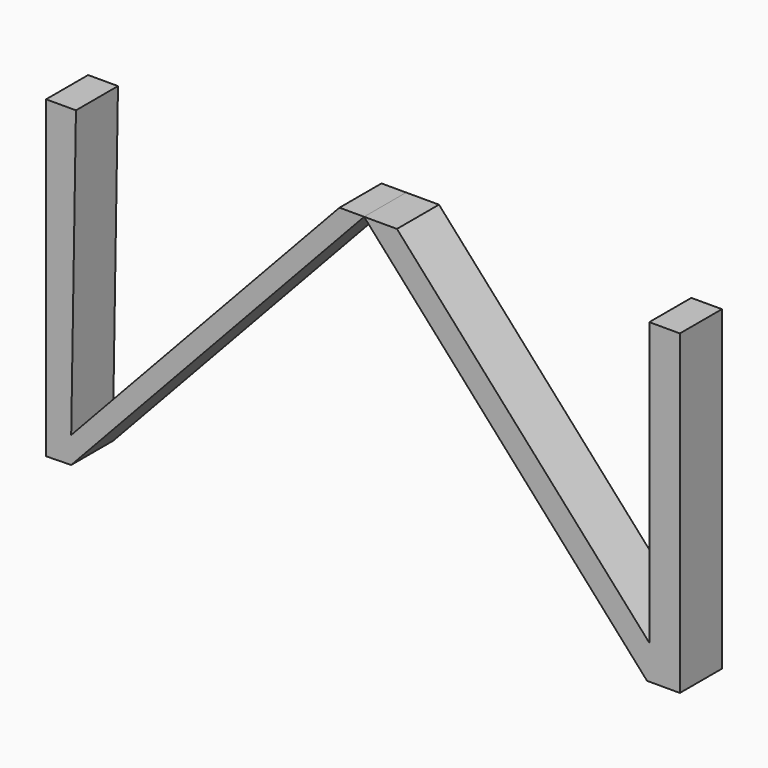
from build123d import *

# Parameters (mm, degrees)
F1_DEPTH = 12.7


with BuildPart() as f1:
    # F0 (on Front) → F1 (new body)
    with BuildSketch(Plane.XZ):
        Polygon((7.9395622015, 0), (0, 0), (68.3884620667, -76.5085071325), (76.3280242682, -76.5085071325), (68.9298063517, -68.2318681919), align=None)
        Polygon((68.9298063517, -68.2318681919), (76.3280242682, -76.5085071325), (76.3280242682, 0), (68.9298063517, 0), align=None)
        Polygon((7.9395622015, 0), (0, 0), (68.3884620667, -76.5085071325), (76.3280242682, -76.5085071325), (68.9298063517, -68.2318681919), align=None)
        Polygon((68.9298063517, -68.2318681919), (76.3280242682, -76.5085071325), (76.3280242682, 0), (68.9298063517, 0), align=None)
    extrude(amount=F1_DEPTH)


with BuildPart() as f1b:
    # F0 (on Front) → F1, piece 2 (new body)
    with BuildSketch(Plane.XZ):
        Polygon((-70.8005245154, -69.4659525851), (-76.8693611026, -75.9671777487), (-70.8005245154, -75.8448748718), (0, 0), (-5.9546679258, 0), align=None)
        Polygon((-76.8693611026, 0), (-76.8693611026, -75.9671777487), (-70.8005245154, -69.4659525851), (-69.651581347, 0), align=None)
        Polygon((-70.8005245154, -69.4659525851), (-76.8693611026, -75.9671777487), (-70.8005245154, -75.8448748718), (0, 0), (-5.9546679258, 0), align=None)
        Polygon((-76.8693611026, 0), (-76.8693611026, -75.9671777487), (-70.8005245154, -69.4659525851), (-69.651581347, 0), align=None)
    extrude(amount=F1_DEPTH)


solid = Compound([f1.part, f1b.part])
